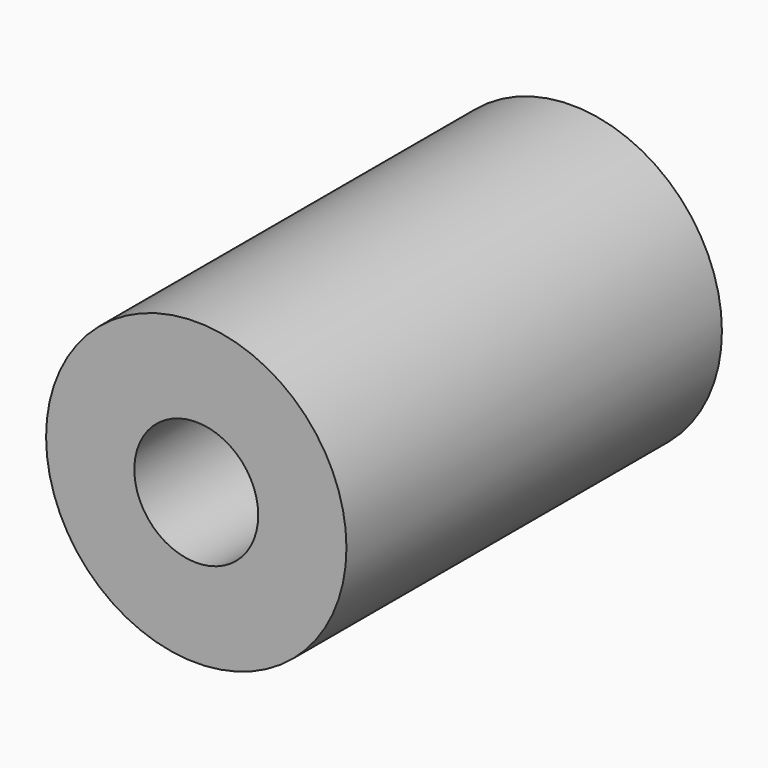
from build123d import *

# Parameters (mm, degrees)
CYLINDER012_R     = 3.3
CYLINDER012_DEPTH = 25
CYLINDER010_R     = 8
CYLINDER010_DEPTH = 25


with BuildPart() as zylinder012:
    # Cylinder012 → Cylinder012 (new body)
    with BuildSketch(Plane(origin=(250, 0, 40), x_dir=(1, 0, 0), z_dir=(0, -1, 0))):
        Circle(CYLINDER012_R)
    extrude(amount=CYLINDER012_DEPTH)


with BuildPart() as spacer02:
    # Cylinder010 → Cylinder010 (new body)
    with BuildSketch(Plane(origin=(250, 0, 40), x_dir=(1, 0, 0), z_dir=(0, -1, 0))):
        Circle(CYLINDER010_R)
    extrude(amount=CYLINDER010_DEPTH)

    # Cut007: cut Zylinder012
    add(zylinder012.part, mode=Mode.SUBTRACT)


solid = spacer02.part
